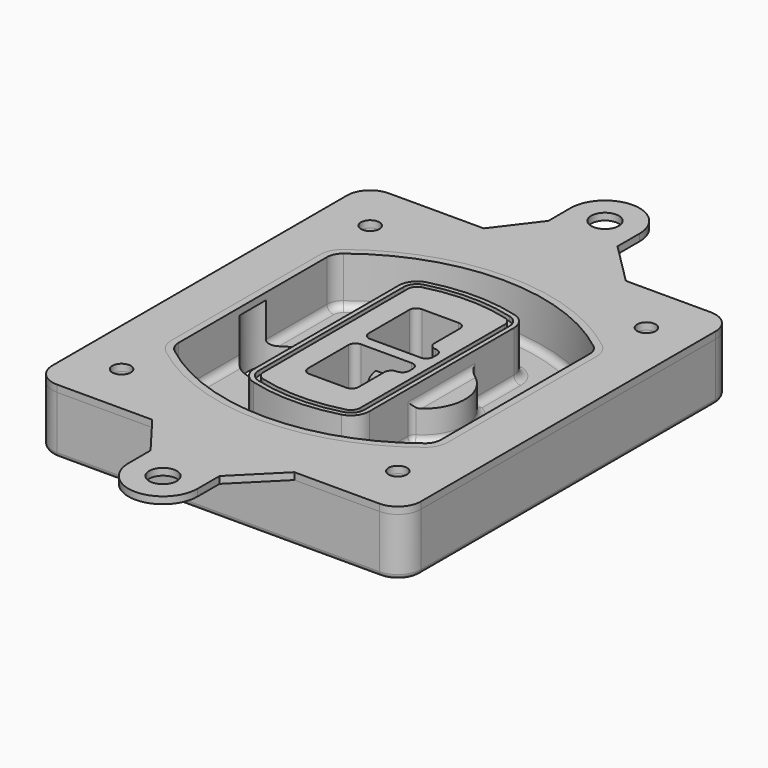
from build123d import *

# Parameters (mm, degrees)
F0_R      = 4
F1_DEPTH  = 25
F2_DEPTH  = 3
F3_DEPTH  = 18
F5_DEPTH  = 21
F6_DEPTH  = 2
F8_DEPTH  = 20
F9_DEPTH  = 16
F10_DEPTH = 25
F7_R      = 6
F7_R_2    = 4
F11_DEPTH = 6
F13_DEPTH = 9
F14_R     = 3
F15_R     = 2
F16_R     = 6
F16_R_2   = 4
F17_DEPTH = 3


with BuildPart() as f1:
    # F0 (on Top) → F1 (new body)
    with BuildSketch(Plane.XY):
        with BuildLine():
            ThreePointArc((-80, -80), (-77.0710678119, -87.0710678119), (-70, -90))
            Line((-70, -90), (70, -90))
            ThreePointArc((70, -90), (77.0710678119, -87.0710678119), (80, -80))
            Line((80, -80), (80, 80))
            ThreePointArc((80, 80), (77.0710678119, 87.0710678119), (70, 90))
            Line((70, 90), (-70, 90))
            ThreePointArc((-70, 90), (-77.0710678119, 87.0710678119), (-80, 80))
            Line((-80, 80), (-80, -80))
        make_face()
        with Locations((-60, -67.5)):
            Circle(F0_R, mode=Mode.SUBTRACT)
        with Locations((60, -67.5)):
            Circle(F0_R, mode=Mode.SUBTRACT)
        with Locations((-60, 67.5)):
            Circle(F0_R, mode=Mode.SUBTRACT)
        with BuildLine():
            ThreePointArc((-64, 40.2934422872), (-62.5820384798, 46.4328484224), (-58.6153846154, 51.3286200352))
            ThreePointArc((-58.6153846154, 51.3286200352), (0, 71.5), (58.6153846154, 51.3286200352))
            ThreePointArc((58.6153846154, 51.3286200352), (62.5820384798, 46.4328484224), (64, 40.2934422872))
            Line((64, 40.2934422872), (64, -40.2934422872))
            ThreePointArc((64, -40.2934422872), (62.5820384798, -46.4328484224), (58.6153846154, -51.3286200352))
            ThreePointArc((58.6153846154, -51.3286200352), (0, -71.5), (-58.6153846154, -51.3286200352))
            ThreePointArc((-58.6153846154, -51.3286200352), (-62.5820384798, -46.4328484224), (-64, -40.2934422872))
            Line((-64, -40.2934422872), (-64, 40.2934422872))
        make_face(mode=Mode.SUBTRACT)
        with Locations((60, 67.5)):
            Circle(F0_R, mode=Mode.SUBTRACT)
        with BuildLine():
            ThreePointArc((58.6153846154, 51.3286200352), (0, 71.5), (-58.6153846154, 51.3286200352))
            ThreePointArc((-58.6153846154, 51.3286200352), (-62.5820384798, 46.4328484224), (-64, 40.2934422872))
            Line((-64, 40.2934422872), (-64, -40.2934422872))
            ThreePointArc((-64, -40.2934422872), (-62.5820384798, -46.4328484224), (-58.6153846154, -51.3286200352))
            ThreePointArc((-58.6153846154, -51.3286200352), (0, -71.5), (58.6153846154, -51.3286200352))
            ThreePointArc((58.6153846154, -51.3286200352), (62.5820384798, -46.4328484224), (64, -40.2934422872))
            Line((64, -40.2934422872), (64, 40.2934422872))
            ThreePointArc((64, 40.2934422872), (62.5820384798, 46.4328484224), (58.6153846154, 51.3286200352))
        make_face()
        with BuildLine():
            Line((-60, -40.2934422872), (-60, 40.2934422872))
            ThreePointArc((-60, 40.2934422872), (-58.9871703427, 44.6787323838), (-56.1538461538, 48.1757121072))
            ThreePointArc((-56.1538461538, 48.1757121072), (0, 67.5), (56.1538461538, 48.1757121072))
            ThreePointArc((56.1538461538, 48.1757121072), (58.9871703427, 44.6787323838), (60, 40.2934422872))
            Line((60, 40.2934422872), (60, -40.2934422872))
            ThreePointArc((60, -40.2934422872), (58.9871703427, -44.6787323838), (56.1538461538, -48.1757121072))
            ThreePointArc((56.1538461538, -48.1757121072), (0, -67.5), (-56.1538461538, -48.1757121072))
            ThreePointArc((-56.1538461538, -48.1757121072), (-58.9871703427, -44.6787323838), (-60, -40.2934422872))
        make_face(mode=Mode.SUBTRACT)
        with BuildLine():
            ThreePointArc((-56.1538461538, 48.1757121072), (-58.9871703427, 44.6787323838), (-60, 40.2934422872))
            Line((-60, 40.2934422872), (-60, -40.2934422872))
            ThreePointArc((-60, -40.2934422872), (-58.9871703427, -44.6787323838), (-56.1538461538, -48.1757121072))
            ThreePointArc((-56.1538461538, -48.1757121072), (0, -67.5), (56.1538461538, -48.1757121072))
            ThreePointArc((56.1538461538, -48.1757121072), (58.9871703427, -44.6787323838), (60, -40.2934422872))
            Line((60, -40.2934422872), (60, 40.2934422872))
            ThreePointArc((60, 40.2934422872), (58.9871703427, 44.6787323838), (56.1538461538, 48.1757121072))
            ThreePointArc((56.1538461538, 48.1757121072), (0, 67.5), (-56.1538461538, 48.1757121072))
        make_face()
        with BuildLine():
            ThreePointArc((54.3076923077, 45.8110311612), (56.2910192399, 43.3631453548), (57, 40.2934422872))
            Line((57, 40.2934422872), (57, -40.2934422872))
            ThreePointArc((57, -40.2934422872), (56.2910192399, -43.3631453548), (54.3076923077, -45.8110311612))
            ThreePointArc((54.3076923077, -45.8110311612), (0, -64.5), (-54.3076923077, -45.8110311612))
            ThreePointArc((-54.3076923077, -45.8110311612), (-56.2910192399, -43.3631453548), (-57, -40.2934422872))
            Line((-57, -40.2934422872), (-57, 40.2934422872))
            ThreePointArc((-57, 40.2934422872), (-56.2910192399, 43.3631453548), (-54.3076923077, 45.8110311612))
            ThreePointArc((-54.3076923077, 45.8110311612), (0, 64.5), (54.3076923077, 45.8110311612))
        make_face(mode=Mode.SUBTRACT)
        with BuildLine():
            Line((57, -40.2934422872), (57, 40.2934422872))
            ThreePointArc((57, 40.2934422872), (56.2910192399, 43.3631453548), (54.3076923077, 45.8110311612))
            ThreePointArc((54.3076923077, 45.8110311612), (0, 64.5), (-54.3076923077, 45.8110311612))
            ThreePointArc((-54.3076923077, 45.8110311612), (-56.2910192399, 43.3631453548), (-57, 40.2934422872))
            Line((-57, 40.2934422872), (-57, -40.2934422872))
            ThreePointArc((-57, -40.2934422872), (-56.2910192399, -43.3631453548), (-54.3076923077, -45.8110311612))
            ThreePointArc((-54.3076923077, -45.8110311612), (0, -64.5), (54.3076923077, -45.8110311612))
            ThreePointArc((54.3076923077, -45.8110311612), (56.2910192399, -43.3631453548), (57, -40.2934422872))
        make_face()
    extrude(amount=-F1_DEPTH)

    # F0 (on Top) → F2 (join)
    with BuildSketch(Plane.XY):
        with BuildLine():
            ThreePointArc((-56.1538461538, 48.1757121072), (-58.9871703427, 44.6787323838), (-60, 40.2934422872))
            Line((-60, 40.2934422872), (-60, -40.2934422872))
            ThreePointArc((-60, -40.2934422872), (-58.9871703427, -44.6787323838), (-56.1538461538, -48.1757121072))
            ThreePointArc((-56.1538461538, -48.1757121072), (0, -67.5), (56.1538461538, -48.1757121072))
            ThreePointArc((56.1538461538, -48.1757121072), (58.9871703427, -44.6787323838), (60, -40.2934422872))
            Line((60, -40.2934422872), (60, 40.2934422872))
            ThreePointArc((60, 40.2934422872), (58.9871703427, 44.6787323838), (56.1538461538, 48.1757121072))
            ThreePointArc((56.1538461538, 48.1757121072), (0, 67.5), (-56.1538461538, 48.1757121072))
        make_face()
        with BuildLine():
            ThreePointArc((54.3076923077, 45.8110311612), (56.2910192399, 43.3631453548), (57, 40.2934422872))
            Line((57, 40.2934422872), (57, -40.2934422872))
            ThreePointArc((57, -40.2934422872), (56.2910192399, -43.3631453548), (54.3076923077, -45.8110311612))
            ThreePointArc((54.3076923077, -45.8110311612), (0, -64.5), (-54.3076923077, -45.8110311612))
            ThreePointArc((-54.3076923077, -45.8110311612), (-56.2910192399, -43.3631453548), (-57, -40.2934422872))
            Line((-57, -40.2934422872), (-57, 40.2934422872))
            ThreePointArc((-57, 40.2934422872), (-56.2910192399, 43.3631453548), (-54.3076923077, 45.8110311612))
            ThreePointArc((-54.3076923077, 45.8110311612), (0, 64.5), (54.3076923077, 45.8110311612))
        make_face(mode=Mode.SUBTRACT)
    extrude(amount=F2_DEPTH)

    # F0 (on Top) → F3 (cut)
    with BuildSketch(Plane.XY):
        with BuildLine():
            Line((57, -40.2934422872), (57, 40.2934422872))
            ThreePointArc((57, 40.2934422872), (56.2910192399, 43.3631453548), (54.3076923077, 45.8110311612))
            ThreePointArc((54.3076923077, 45.8110311612), (0, 64.5), (-54.3076923077, 45.8110311612))
            ThreePointArc((-54.3076923077, 45.8110311612), (-56.2910192399, 43.3631453548), (-57, 40.2934422872))
            Line((-57, 40.2934422872), (-57, -40.2934422872))
            ThreePointArc((-57, -40.2934422872), (-56.2910192399, -43.3631453548), (-54.3076923077, -45.8110311612))
            ThreePointArc((-54.3076923077, -45.8110311612), (0, -64.5), (54.3076923077, -45.8110311612))
            ThreePointArc((54.3076923077, -45.8110311612), (56.2910192399, -43.3631453548), (57, -40.2934422872))
        make_face()
    extrude(amount=-F3_DEPTH, mode=Mode.SUBTRACT)

    # F4 (on face) → F5 (join, through all)
    with BuildSketch(Plane.XY.offset(3)):
        with BuildLine():
            ThreePointArc((-25, -39.2465276821), (-23.3511545998, -44.1109737193), (-19.0842911877, -46.9702398883))
            ThreePointArc((-19.0842911877, -46.9702398883), (0, -49.5), (19.0842911877, -46.9702398883))
            ThreePointArc((19.0842911877, -46.9702398883), (23.3511545998, -44.1109737193), (25, -39.2465276821))
            Line((25, -39.2465276821), (25, 39.2465276821))
            ThreePointArc((25, 39.2465276821), (23.3511545998, 44.1109737193), (19.0842911877, 46.9702398883))
            ThreePointArc((19.0842911877, 46.9702398883), (0, 49.5), (-19.0842911877, 46.9702398883))
            ThreePointArc((-19.0842911877, 46.9702398883), (-23.3511545998, 44.1109737193), (-25, 39.2465276821))
            Line((-25, 39.2465276821), (-25, -39.2465276821))
        make_face()
        with BuildLine():
            ThreePointArc((18.5632183908, 45.0393118368), (21.7633659499, 42.89486221), (23, 39.2465276821))
            Line((23, 39.2465276821), (23, -39.2465276821))
            ThreePointArc((23, -39.2465276821), (21.7633659499, -42.89486221), (18.5632183908, -45.0393118368))
            ThreePointArc((18.5632183908, -45.0393118368), (0, -47.5), (-18.5632183908, -45.0393118368))
            ThreePointArc((-18.5632183908, -45.0393118368), (-21.7633659499, -42.89486221), (-23, -39.2465276821))
            Line((-23, -39.2465276821), (-23, 39.2465276821))
            ThreePointArc((-23, 39.2465276821), (-21.7633659499, 42.89486221), (-18.5632183908, 45.0393118368))
            ThreePointArc((-18.5632183908, 45.0393118368), (0, 47.5), (18.5632183908, 45.0393118368))
        make_face(mode=Mode.SUBTRACT)
        with BuildLine():
            Line((23, -39.2465276821), (23, 39.2465276821))
            ThreePointArc((23, 39.2465276821), (21.7633659499, 42.89486221), (18.5632183908, 45.0393118368))
            ThreePointArc((18.5632183908, 45.0393118368), (0, 47.5), (-18.5632183908, 45.0393118368))
            ThreePointArc((-18.5632183908, 45.0393118368), (-21.7633659499, 42.89486221), (-23, 39.2465276821))
            Line((-23, 39.2465276821), (-23, -39.2465276821))
            ThreePointArc((-23, -39.2465276821), (-21.7633659499, -42.89486221), (-18.5632183908, -45.0393118368))
            ThreePointArc((-18.5632183908, -45.0393118368), (0, -47.5), (18.5632183908, -45.0393118368))
            ThreePointArc((18.5632183908, -45.0393118368), (21.7633659499, -42.89486221), (23, -39.2465276821))
        make_face()
        with BuildLine():
            ThreePointArc((18.0421455939, 43.1083837852), (20.1755772999, 41.6787507007), (21, 39.2465276821))
            Line((21, 39.2465276821), (21, -39.2465276821))
            ThreePointArc((21, -39.2465276821), (20.1755772999, -41.6787507007), (18.0421455939, -43.1083837852))
            ThreePointArc((18.0421455939, -43.1083837852), (0, -45.5), (-18.0421455939, -43.1083837852))
            ThreePointArc((-18.0421455939, -43.1083837852), (-20.1755772999, -41.6787507007), (-21, -39.2465276821))
            Line((-21, -39.2465276821), (-21, 39.2465276821))
            ThreePointArc((-21, 39.2465276821), (-20.1755772999, 41.6787507007), (-18.0421455939, 43.1083837852))
            ThreePointArc((-18.0421455939, 43.1083837852), (0, 45.5), (18.0421455939, 43.1083837852))
        make_face(mode=Mode.SUBTRACT)
        with BuildLine():
            Line((21, -39.2465276821), (21, 39.2465276821))
            ThreePointArc((21, 39.2465276821), (20.1755772999, 41.6787507007), (18.0421455939, 43.1083837852))
            ThreePointArc((18.0421455939, 43.1083837852), (0, 45.5), (-18.0421455939, 43.1083837852))
            ThreePointArc((-18.0421455939, 43.1083837852), (-20.1755772999, 41.6787507007), (-21, 39.2465276821))
            Line((-21, 39.2465276821), (-21, -39.2465276821))
            ThreePointArc((-21, -39.2465276821), (-20.1755772999, -41.6787507007), (-18.0421455939, -43.1083837852))
            ThreePointArc((-18.0421455939, -43.1083837852), (0, -45.5), (18.0421455939, -43.1083837852))
            ThreePointArc((18.0421455939, -43.1083837852), (20.1755772999, -41.6787507007), (21, -39.2465276821))
        make_face()
        with BuildLine():
            Line((-8, -2.5), (14, -2.5))
            ThreePointArc((14, -2.5), (16.1213203436, -3.3786796564), (17, -5.5))
            Line((17, -5.5), (17, -7.5))
            ThreePointArc((17, -7.5), (16.1213203436, -9.6213203436), (14, -10.5))
            ThreePointArc((14, -10.5), (11.8786796564, -11.3786796564), (11, -13.5))
            Line((11, -13.5), (11, -27.5))
            ThreePointArc((11, -27.5), (10.1213203436, -29.6213203436), (8, -30.5))
            Line((8, -30.5), (-8, -30.5))
            ThreePointArc((-8, -30.5), (-10.1213203436, -29.6213203436), (-11, -27.5))
            Line((-11, -27.5), (-11, -5.5))
            ThreePointArc((-11, -5.5), (-10.1213203436, -3.3786796564), (-8, -2.5))
        make_face(mode=Mode.SUBTRACT)
        with BuildLine():
            ThreePointArc((-8, 2.5), (-10.1213203436, 3.3786796564), (-11, 5.5))
            Line((-11, 5.5), (-11, 27.5))
            ThreePointArc((-11, 27.5), (-10.1213203436, 29.6213203436), (-8, 30.5))
            Line((-8, 30.5), (8, 30.5))
            ThreePointArc((8, 30.5), (10.1213203436, 29.6213203436), (11, 27.5))
            Line((11, 27.5), (11, 13.5))
            ThreePointArc((11, 13.5), (11.8786796564, 11.3786796564), (14, 10.5))
            ThreePointArc((14, 10.5), (16.1213203436, 9.6213203436), (17, 7.5))
            Line((17, 7.5), (17, 5.5))
            ThreePointArc((17, 5.5), (16.1213203436, 3.3786796564), (14, 2.5))
            Line((14, 2.5), (-8, 2.5))
        make_face(mode=Mode.SUBTRACT)
    extrude(amount=-F5_DEPTH)

    # F4 (on face) → F6 (cut)
    with BuildSketch(Plane.XY.offset(3)):
        with BuildLine():
            Line((23, -39.2465276821), (23, 39.2465276821))
            ThreePointArc((23, 39.2465276821), (21.7633659499, 42.89486221), (18.5632183908, 45.0393118368))
            ThreePointArc((18.5632183908, 45.0393118368), (0, 47.5), (-18.5632183908, 45.0393118368))
            ThreePointArc((-18.5632183908, 45.0393118368), (-21.7633659499, 42.89486221), (-23, 39.2465276821))
            Line((-23, 39.2465276821), (-23, -39.2465276821))
            ThreePointArc((-23, -39.2465276821), (-21.7633659499, -42.89486221), (-18.5632183908, -45.0393118368))
            ThreePointArc((-18.5632183908, -45.0393118368), (0, -47.5), (18.5632183908, -45.0393118368))
            ThreePointArc((18.5632183908, -45.0393118368), (21.7633659499, -42.89486221), (23, -39.2465276821))
        make_face()
        with BuildLine():
            ThreePointArc((18.0421455939, 43.1083837852), (20.1755772999, 41.6787507007), (21, 39.2465276821))
            Line((21, 39.2465276821), (21, -39.2465276821))
            ThreePointArc((21, -39.2465276821), (20.1755772999, -41.6787507007), (18.0421455939, -43.1083837852))
            ThreePointArc((18.0421455939, -43.1083837852), (0, -45.5), (-18.0421455939, -43.1083837852))
            ThreePointArc((-18.0421455939, -43.1083837852), (-20.1755772999, -41.6787507007), (-21, -39.2465276821))
            Line((-21, -39.2465276821), (-21, 39.2465276821))
            ThreePointArc((-21, 39.2465276821), (-20.1755772999, 41.6787507007), (-18.0421455939, 43.1083837852))
            ThreePointArc((-18.0421455939, 43.1083837852), (0, 45.5), (18.0421455939, 43.1083837852))
        make_face(mode=Mode.SUBTRACT)
    extrude(amount=-F6_DEPTH, mode=Mode.SUBTRACT)

    # F7 (on face) → F8 (join)
    with BuildSketch(Plane(origin=(0, 0, -25), x_dir=(1, 0, 0), z_dir=(0, 0, -1))):
        with BuildLine():
            ThreePointArc((3.28842436, 0), (16.7567035675, 13.4682792075), (30.224982775, 0))
            Line((30.224982775, 0), (35.224982775, 0))
            ThreePointArc((35.224982775, 0), (16.7567035675, 18.4682792075), (-1.71157564, 0))
            Line((-1.71157564, 0), (3.28842436, 0))
        make_face()
        with BuildLine():
            Line((3.28842436, 0), (30.224982775, 0))
            ThreePointArc((30.224982775, 0), (16.7567035675, 13.4682792075), (3.28842436, 0))
        make_face()
        with BuildLine():
            ThreePointArc((3.28842436, 0), (16.7567035675, -13.4682792075), (30.224982775, 0))
            Line((30.224982775, 0), (3.28842436, 0))
        make_face()
        with BuildLine():
            Line((35.224982775, 0), (30.224982775, 0))
            ThreePointArc((30.224982775, 0), (16.7567035675, -13.4682792075), (3.28842436, 0))
            Line((3.28842436, 0), (-1.71157564, 0))
            ThreePointArc((-1.71157564, 0), (16.7567035675, -18.4682792075), (35.224982775, 0))
        make_face()
    extrude(amount=-F8_DEPTH)

    # F7 (on face) → F9 (cut)
    with BuildSketch(Plane(origin=(0, 0, -25), x_dir=(1, 0, 0), z_dir=(0, 0, -1))):
        with BuildLine():
            Line((3.28842436, 0), (30.224982775, 0))
            ThreePointArc((30.224982775, 0), (16.7567035675, 13.4682792075), (3.28842436, 0))
        make_face()
        with BuildLine():
            ThreePointArc((3.28842436, 0), (16.7567035675, -13.4682792075), (30.224982775, 0))
            Line((30.224982775, 0), (3.28842436, 0))
        make_face()
    extrude(amount=-F9_DEPTH, mode=Mode.SUBTRACT)

    # F7 (on face) → F10 (cut)
    with BuildSketch(Plane(origin=(0, 0, -25), x_dir=(1, 0, 0), z_dir=(0, 0, -1))):
        with BuildLine():
            Line((-59.0318229325, 0), (-32.0952645175, 0))
            ThreePointArc((-32.0952645175, 0), (-45.563543725, 13.4682792075), (-59.0318229325, 0))
        make_face()
        with BuildLine():
            ThreePointArc((-59.0318229325, 0), (-45.563543725, -13.4682792075), (-32.0952645175, 0))
            Line((-32.0952645175, 0), (-59.0318229325, 0))
        make_face()
    extrude(amount=-F10_DEPTH, mode=Mode.SUBTRACT)

    # F7 (on face) → F11 (cut)
    with BuildSketch(Plane(origin=(0, 0, -25), x_dir=(1, 0, 0), z_dir=(0, 0, -1))):
        with Locations((60, -67.5)):
            Circle(F7_R)
        with Locations((60, -67.5)):
            Circle(F7_R_2, mode=Mode.SUBTRACT)
        with Locations((60, -67.5)):
            Circle(F7_R)
        with Locations((60, -67.5)):
            Circle(F7_R_2, mode=Mode.SUBTRACT)
        with Locations((-60, -67.5)):
            Circle(F7_R)
        with Locations((-60, -67.5)):
            Circle(F7_R_2, mode=Mode.SUBTRACT)
        with Locations((-60, -67.5)):
            Circle(F7_R)
        with Locations((-60, -67.5)):
            Circle(F7_R_2, mode=Mode.SUBTRACT)
        with Locations((-60, 67.5)):
            Circle(F7_R)
        with Locations((-60, 67.5)):
            Circle(F7_R_2, mode=Mode.SUBTRACT)
        with Locations((-60, 67.5)):
            Circle(F7_R)
        with Locations((-60, 67.5)):
            Circle(F7_R_2, mode=Mode.SUBTRACT)
        with Locations((60, 67.5)):
            Circle(F7_R)
        with Locations((60, 67.5)):
            Circle(F7_R_2, mode=Mode.SUBTRACT)
        with Locations((60, 67.5)):
            Circle(F7_R)
        with Locations((60, 67.5)):
            Circle(F7_R_2, mode=Mode.SUBTRACT)
    extrude(amount=-F11_DEPTH, mode=Mode.SUBTRACT)

    # F12 (on face) → F13 (cut, through all)
    with BuildSketch(Plane(origin=(0, 0, -9), x_dir=(1, 0, 0), z_dir=(0, 0, -1))):
        with BuildLine():
            Line((11, 13.5), (11, 17.5481537753))
            ThreePointArc((11, 17.5481537753), (2.5696536419, 11.8239143813), (-1.5415842455, 2.5))
            Line((-1.5415842455, 2.5), (3.5224848595, 2.5))
            ThreePointArc((3.5224848595, 2.5), (6.1857188154, 8.3455872281), (11.2536447004, 12.2927168648))
            ThreePointArc((11.2536447004, 12.2927168648), (11.0640958889, 12.8831798879), (11, 13.5))
        make_face()
        with BuildLine():
            ThreePointArc((11.2536447004, -12.2927168648), (6.1857188154, -8.3455872281), (3.5224848595, -2.5))
            Line((3.5224848595, -2.5), (-1.5415842455, -2.5))
            ThreePointArc((-1.5415842455, -2.5), (2.5696536419, -11.8239143813), (11, -17.5481537753))
            Line((11, -17.5481537753), (11, -13.5))
            ThreePointArc((11, -13.5), (11.0640958889, -12.8831798879), (11.2536447004, -12.2927168648))
        make_face()
        with BuildLine():
            ThreePointArc((11.2536447004, 12.2927168648), (6.1857188154, 8.3455872281), (3.5224848595, 2.5))
            Line((3.5224848595, 2.5), (14, 2.5))
            ThreePointArc((14, 2.5), (16.1213203436, 3.3786796564), (17, 5.5))
            Line((17, 5.5), (17, 7.5))
            ThreePointArc((17, 7.5), (16.1213203436, 9.6213203436), (14, 10.5))
            ThreePointArc((14, 10.5), (12.3601599782, 10.9878446101), (11.2536447004, 12.2927168648))
        make_face()
        with BuildLine():
            Line((14, -2.5), (3.5224848595, -2.5))
            ThreePointArc((3.5224848595, -2.5), (6.1857188154, -8.3455872281), (11.2536447004, -12.2927168648))
            ThreePointArc((11.2536447004, -12.2927168648), (12.3601599782, -10.9878446101), (14, -10.5))
            ThreePointArc((14, -10.5), (16.1213203436, -9.6213203436), (17, -7.5))
            Line((17, -7.5), (17, -5.5))
            ThreePointArc((17, -5.5), (16.1213203436, -3.3786796564), (14, -2.5))
        make_face()
    extrude(amount=F13_DEPTH, mode=Mode.SUBTRACT)

    # F14
    f14_edges = [f1.edges().sort_by_distance(p)[0] for p in [
        (-57, -23.703476, -18),
        (-57, 23.703476, -18),
        (25, 0, -5),
        (25, 16.526506, -11.5),
        (25, -16.526506, -11.5),
        (25, -27.886517, -18),
        (35.224983, 0, -18),
    ]]
    fillet(f14_edges, radius=F14_R)

    # F15
    f15_edges = [f1.edges().sort_by_distance(p)[0] for p in [
        (0, -90, -25),
    ]]
    fillet(f15_edges, radius=F15_R)


with BuildPart() as f17:
    # F16 (on face) → F17 (new body)
    with BuildSketch(Plane.XY):
        with BuildLine():
            Line((-14.9999280526, 108), (-28.6718237205, 90))
            Line((-28.6718237205, 90), (33.0464587808, 90))
            Line((33.0464587808, 90), (15, 108.0464587808))
            Line((15, 108.0464587808), (15, 120))
            ThreePointArc((15, 120), (-0.0232294182, 134.9999820131), (-14.9999280526, 119.9535412192))
            Line((-14.9999280526, 119.9535412192), (-14.9999280526, 108))
        make_face()
        with Locations((0, 120)):
            Circle(F16_R, mode=Mode.SUBTRACT)
        with BuildLine():
            Line((33.0464587808, -90), (-28.6718237205, -90))
            Line((-28.6718237205, -90), (-14.9999280526, -108))
            Line((-14.9999280526, -108), (-14.9999280526, -119.9535412192))
            ThreePointArc((-14.9999280526, -119.9535412192), (-0.0232294182, -134.9999820131), (15, -120))
            Line((15, -120), (15, -108.0464587808))
            Line((15, -108.0464587808), (33.0464587808, -90))
        make_face()
        with Locations((0, -120)):
            Circle(F16_R, mode=Mode.SUBTRACT)
        with BuildLine():
            Line((33.0464587808, 90), (-28.6718237205, 90))
            Line((-28.6718237205, 90), (-70, 90))
            ThreePointArc((-70, 90), (-77.0710678119, 87.0710678119), (-80, 80))
            Line((-80, 80), (-80, -80))
            ThreePointArc((-80, -80), (-77.0710678119, -87.0710678119), (-70, -90))
            Line((-70, -90), (-28.6718237205, -90))
            Line((-28.6718237205, -90), (33.0464587808, -90))
            Line((33.0464587808, -90), (70, -90))
            ThreePointArc((70, -90), (77.0710678119, -87.0710678119), (80, -80))
            Line((80, -80), (80, 80))
            ThreePointArc((80, 80), (77.0710678119, 87.0710678119), (70, 90))
            Line((70, 90), (33.0464587808, 90))
        make_face()
        with Locations((-60, -67.5)):
            Circle(F16_R_2, mode=Mode.SUBTRACT)
        with Locations((60, -67.5)):
            Circle(F16_R_2, mode=Mode.SUBTRACT)
        with Locations((-60, 67.5)):
            Circle(F16_R_2, mode=Mode.SUBTRACT)
        with BuildLine():
            ThreePointArc((-60, 40.2934422872), (-58.9871703427, 44.6787323838), (-56.1538461538, 48.1757121072))
            ThreePointArc((-56.1538461538, 48.1757121072), (0, 67.5), (56.1538461538, 48.1757121072))
            ThreePointArc((56.1538461538, 48.1757121072), (58.9871703427, 44.6787323838), (60, 40.2934422872))
            Line((60, 40.2934422872), (60, -40.2934422872))
            ThreePointArc((60, -40.2934422872), (58.9871703427, -44.6787323838), (56.1538461538, -48.1757121072))
            ThreePointArc((56.1538461538, -48.1757121072), (0, -67.5), (-56.1538461538, -48.1757121072))
            ThreePointArc((-56.1538461538, -48.1757121072), (-58.9871703427, -44.6787323838), (-60, -40.2934422872))
            Line((-60, -40.2934422872), (-60, 40.2934422872))
        make_face(mode=Mode.SUBTRACT)
        with Locations((60, 67.5)):
            Circle(F16_R_2, mode=Mode.SUBTRACT)
    extrude(amount=F17_DEPTH)


solid = Compound([f1.part, f17.part])
